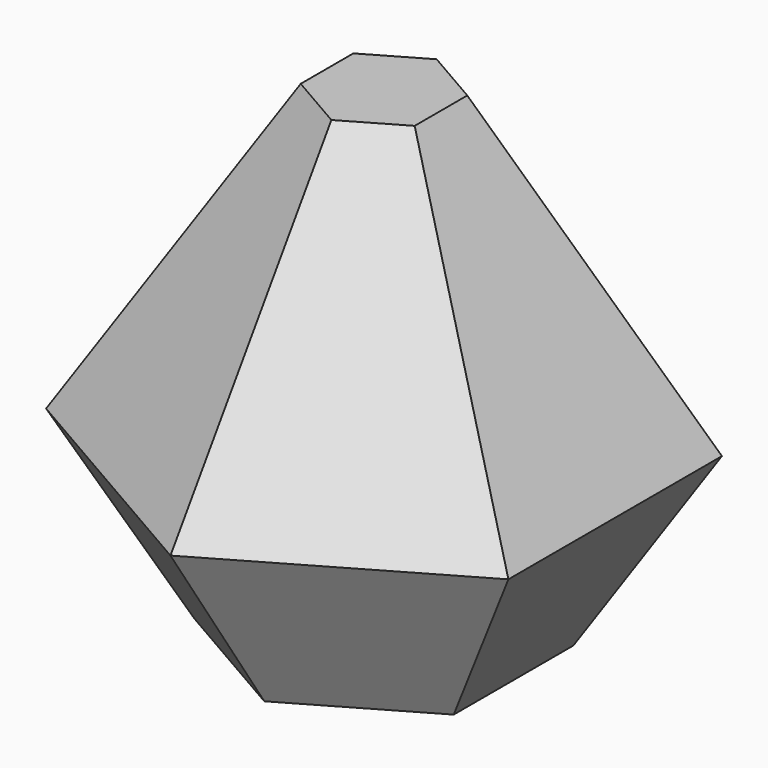
from build123d import *

# Parameters (mm, degrees)
F1_DEPTH = 35
F1_TAPER = -30
F2_DEPTH = 60
F2_TAPER = 30


with BuildPart() as f1:
    # F0 (on Top) → F1 (new body)
    with BuildSketch(Plane.XY):
        Polygon((-25.7642557626, -14.875), (0, -29.75), (25.7642557626, -14.875), (25.7642557626, 14.875), (0, 29.75), (-25.7642557626, 14.875), align=None)
    extrude(amount=F1_DEPTH, taper=F1_TAPER)

    # F1_face (on face) → F2 (join)
    with BuildSketch(Plane.XY.offset(35)):
        Polygon((-45.9715151842, -26.5416666667), (0, -53.0833333333), (45.9715151842, -26.5416666667), (45.9715151842, 26.5416666667), (0, 53.0833333333), (-45.9715151842, 26.5416666667), align=None)
    extrude(amount=F2_DEPTH, taper=F2_TAPER)


solid = f1.part
